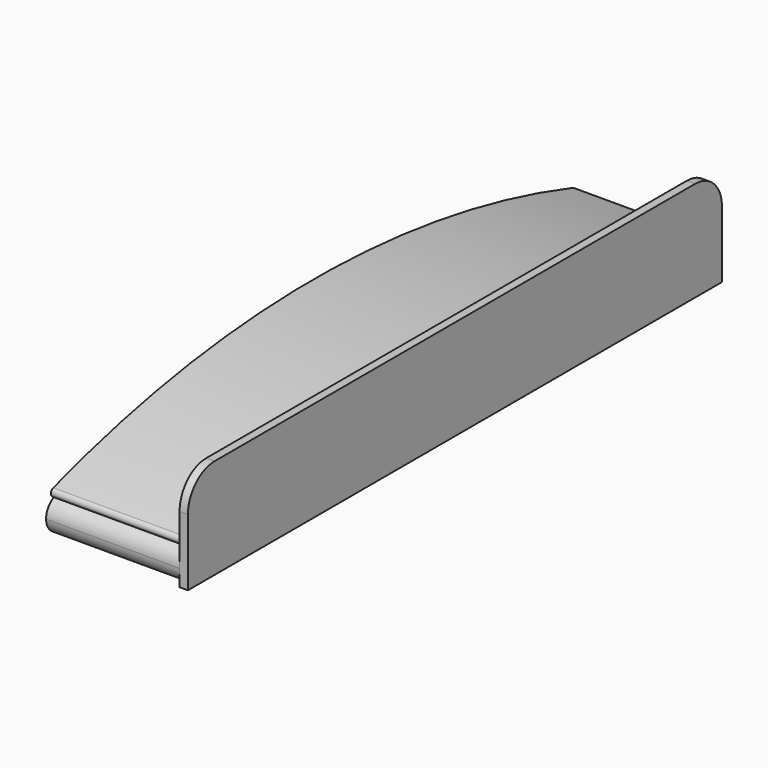
from build123d import *

# Parameters (mm, degrees)
F1_DEPTH = 3.175
F2_DEPTH = 50.8
F3_DEPTH = 50.8


with BuildPart() as f1:
    # F0 (on Right) → F1 (new body)
    with BuildSketch(Plane.YZ):
        with BuildLine():
            ThreePointArc((122.606486, -6.658919), (0, 12.7), (-122.606486, -6.658919))
            ThreePointArc((-122.606486, -6.658919), (-116.91511, -7.564526), (-114.3, -12.7))
            ThreePointArc((-114.3, -12.7), (-116.159872, -17.190128), (-120.65, -19.05))
            Line((-120.65, -19.05), (120.65, -19.05))
            ThreePointArc((120.65, -19.05), (114.377705, -11.709638), (122.606486, -6.658919))
        make_face()
        with BuildLine():
            ThreePointArc((-123.584728, -3.638378), (-124.605877, -5.637769), (-122.606486, -6.658919))
            ThreePointArc((-122.606486, -6.658919), (0, 12.7), (122.606486, -6.658919))
            ThreePointArc((122.606486, -6.658919), (124.60588, -5.637773), (123.584734, -3.63838))
            ThreePointArc((123.584734, -3.63838), (3e-06, 15.875), (-123.584728, -3.638378))
        make_face()
        with BuildLine():
            ThreePointArc((-120.65, -19.05), (-125.140128, -17.190128), (-127, -12.7))
            Line((-127, -12.7), (-127, -19.05))
            Line((-127, -19.05), (-120.65, -19.05))
        make_face()
        with BuildLine():
            Line((114.3, 19.05), (-114.3, 19.05))
            ThreePointArc((-114.3, 19.05), (-123.280256, 15.330256), (-127, 6.35))
            Line((-127, 6.35), (-127, -12.7))
            ThreePointArc((-127, -12.7), (-125.785474, -8.96511), (-122.606486, -6.658919))
            ThreePointArc((-122.606486, -6.658919), (-124.605877, -5.637769), (-123.584728, -3.638378))
            ThreePointArc((-123.584728, -3.638378), (3e-06, 15.875), (123.584734, -3.63838))
            ThreePointArc((123.584734, -3.63838), (124.60588, -5.637773), (122.606486, -6.658919))
            ThreePointArc((122.606486, -6.658919), (125.785474, -8.96511), (127, -12.7))
            Line((127, -12.7), (127, 6.35))
            ThreePointArc((127, 6.35), (123.280256, 15.330256), (114.3, 19.05))
        make_face()
        with BuildLine():
            Line((127, -19.05), (127, -12.7))
            ThreePointArc((127, -12.7), (125.140128, -17.190128), (120.65, -19.05))
            Line((120.65, -19.05), (127, -19.05))
        make_face()
        with BuildLine():
            ThreePointArc((-122.606486, -6.658919), (-125.785474, -8.96511), (-127, -12.7))
            ThreePointArc((-127, -12.7), (-125.140128, -17.190128), (-120.65, -19.05))
            ThreePointArc((-120.65, -19.05), (-116.159872, -17.190128), (-114.3, -12.7))
            ThreePointArc((-114.3, -12.7), (-116.91511, -7.564526), (-122.606486, -6.658919))
        make_face()
        with BuildLine():
            ThreePointArc((120.65, -19.05), (125.140128, -17.190128), (127, -12.7))
            ThreePointArc((127, -12.7), (125.785474, -8.96511), (122.606486, -6.658919))
            ThreePointArc((122.606486, -6.658919), (114.377705, -11.709638), (120.65, -19.05))
        make_face()
    extrude(amount=F1_DEPTH)


with BuildPart() as f2:
    # F0 (on Right) → F2 (new body)
    with BuildSketch(Plane.YZ):
        with BuildLine():
            ThreePointArc((-122.606486, -6.658919), (-125.785474, -8.96511), (-127, -12.7))
            ThreePointArc((-127, -12.7), (-125.140128, -17.190128), (-120.65, -19.05))
            ThreePointArc((-120.65, -19.05), (-116.159872, -17.190128), (-114.3, -12.7))
            ThreePointArc((-114.3, -12.7), (-116.91511, -7.564526), (-122.606486, -6.658919))
        make_face()
        with BuildLine():
            ThreePointArc((120.65, -19.05), (125.140128, -17.190128), (127, -12.7))
            ThreePointArc((127, -12.7), (125.785474, -8.96511), (122.606486, -6.658919))
            ThreePointArc((122.606486, -6.658919), (114.377705, -11.709638), (120.65, -19.05))
        make_face()
    extrude(amount=-F2_DEPTH)


with BuildPart() as f3:
    # F0 (on Right) → F3 (new body, through all)
    with BuildSketch(Plane.YZ):
        with BuildLine():
            ThreePointArc((-123.584728, -3.638378), (-124.605877, -5.637769), (-122.606486, -6.658919))
            ThreePointArc((-122.606486, -6.658919), (0, 12.7), (122.606486, -6.658919))
            ThreePointArc((122.606486, -6.658919), (124.60588, -5.637773), (123.584734, -3.63838))
            ThreePointArc((123.584734, -3.63838), (3e-06, 15.875), (-123.584728, -3.638378))
        make_face()
    extrude(amount=-F3_DEPTH)


solid = Compound([f1.part, f2.part, f3.part])
